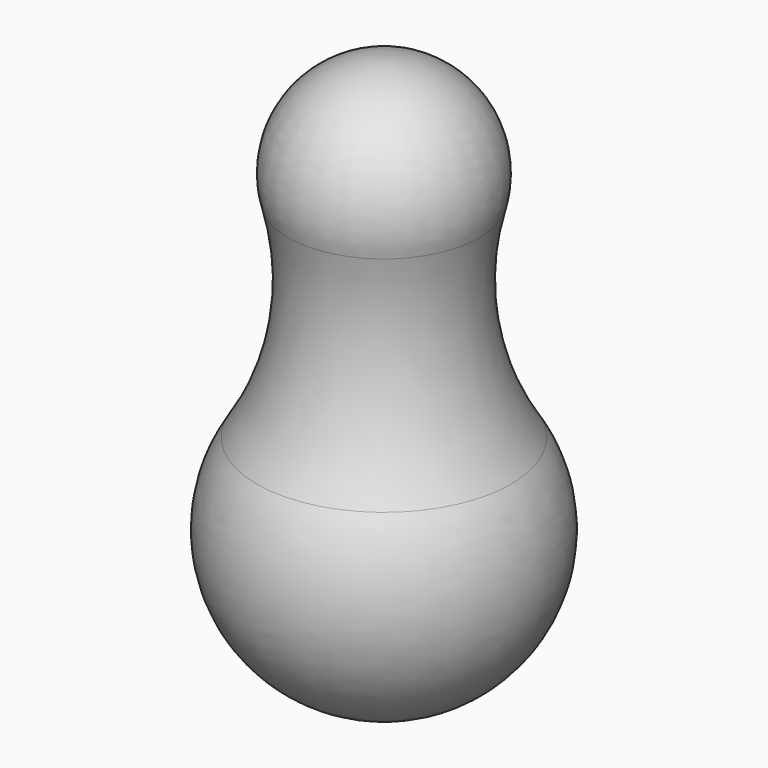
from build123d import *


with BuildPart() as f1:
    # F0 (on Front) → F1 (revolve)
    with BuildSketch(Plane.XZ):
        with BuildLine():
            Line((0, -66.590468), (0, 54.911352))
            ThreePointArc((0, 54.911352), (-16.988001, 46.520571), (-20.649514, 27.930502))
            ThreePointArc((-20.649514, 27.930502), (-19.344311, 4.92544), (-27.430867, -16.65103))
            ThreePointArc((-27.430867, -16.65103), (-28.488594, -49.735389), (0, -66.590468))
        make_face()
    revolve(axis=Axis((0, 0, -5.839558), (0, 0, -1)))


solid = f1.part
